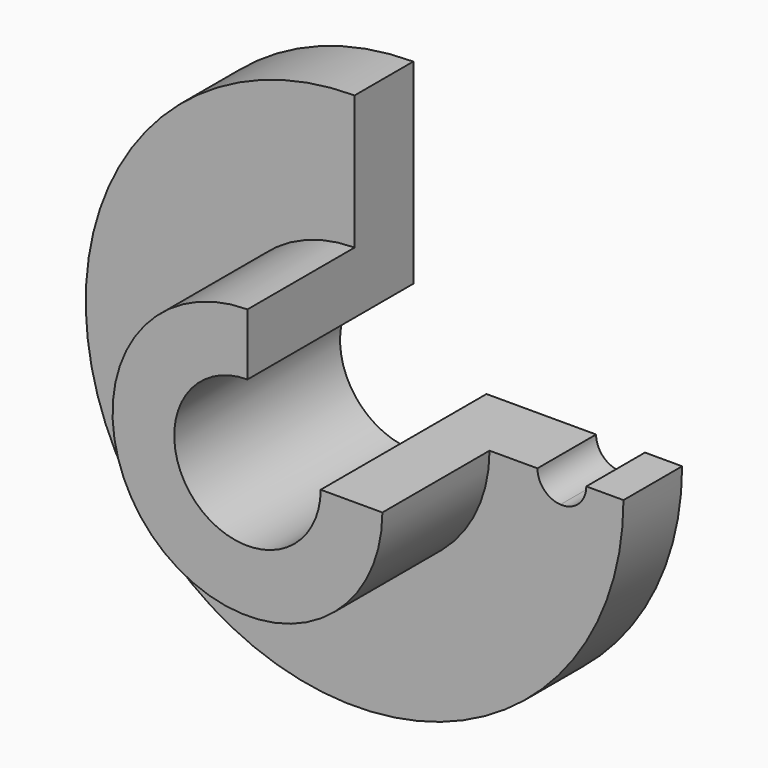
from build123d import *

# Parameters (mm, degrees)
F1_ANGLE = 270
F3_DEPTH = 25.4
F5_DEPTH = 76.2


with BuildPart() as f1:
    # F0 (on Top) → F1 (revolve)
    with BuildSketch(Plane.XY):
        Polygon((69.85, 0), (0, 0), (0, -53.848), (35.052, -53.848), (35.052, -19.05), (69.85, -19.05), align=None)
    revolve(axis=Axis((0, -26.924, 0), (0, 1, 0)), revolution_arc=F1_ANGLE)

    # F2 (on face) → F3 (cut)
    with BuildSketch(Plane(origin=(0, 0, 0), x_dir=(-1, 0, 0), z_dir=(0, 1, 0))):
        with BuildLine():
            ThreePointArc((-60.198, 0), (-58.2037429965, -4.6206063399), (-53.4735896226, -6.3389523479))
            ThreePointArc((-53.4735896226, -6.3389523479), (-53.7543159104, -3.175), (-53.848, 0))
            Line((-53.848, 0), (-60.198, 0))
        make_face()
        with BuildLine():
            ThreePointArc((-53.848, 0), (-53.7543159104, -3.175), (-53.4735896226, -6.3389523479))
            ThreePointArc((-53.4735896226, -6.3389523479), (-49.2273936601, -4.3557429965), (-47.498, 0))
            Line((-47.498, 0), (-53.848, 0))
        make_face()
    extrude(amount=-F3_DEPTH, mode=Mode.SUBTRACT)

    # F4 (on face) → F5 (cut)
    with BuildSketch(Plane.XZ.offset(53.848)):
        with BuildLine():
            ThreePointArc((0, 19.0246), (-13.4524236694, -13.4524236694), (19.0246, 0))
            Line((19.0246, 0), (0, 0))
            Line((0, 0), (0, 19.0246))
        make_face()
    extrude(amount=-F5_DEPTH, mode=Mode.SUBTRACT)


solid = f1.part
